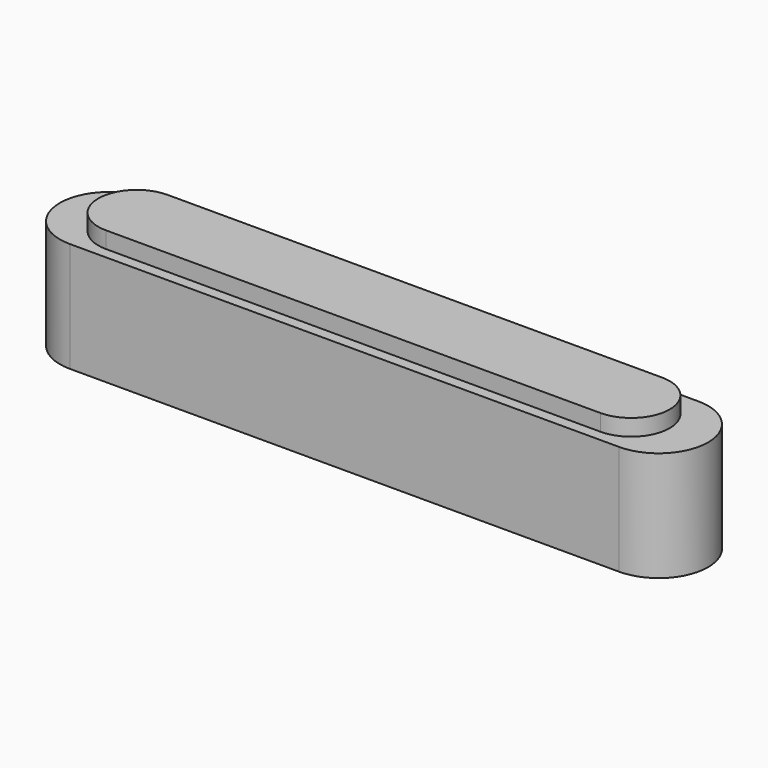
from build123d import *

# Parameters (mm, degrees)
F2_DEPTH = 10
F5_DEPTH = 1.5


with BuildPart() as f2:
    # F1 (on Top) → F2 (new body)
    with BuildSketch(Plane.XY):
        with BuildLine():
            ThreePointArc((-25, 4.5), (-29.5, 0), (-25, -4.5))
            Line((-25, -4.5), (25, -4.5))
            ThreePointArc((25, -4.5), (29.5, 0), (25, 4.5))
            Line((25, 4.5), (-25, 4.5))
        make_face()
    extrude(amount=F2_DEPTH)

    # F4 (on face) → F5 (join)
    with BuildSketch(Plane.XY.offset(10)):
        with BuildLine():
            ThreePointArc((-22.5, 3.5), (-26, 0), (-22.5, -3.5))
            Line((-22.5, -3.5), (22.5, -3.5))
            ThreePointArc((22.5, -3.5), (26, 0), (22.5, 3.5))
            Line((22.5, 3.5), (-22.5, 3.5))
        make_face()
    extrude(amount=F5_DEPTH)


solid = f2.part
